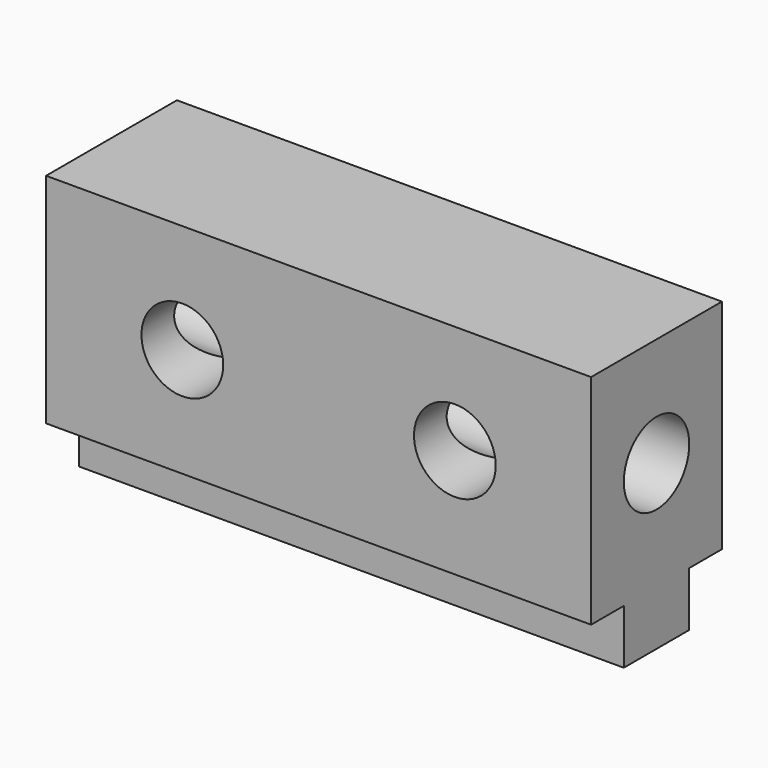
from build123d import *

# Parameters (mm, degrees)
F0_W      = 127
F0_H      = 38.1
F1_DEPTH  = 63.5
F2_W      = 9.525
F2_H      = 12.7
F3_DEPTH  = 127.001
F4_W      = 9.525
F4_H      = 12.7
F5_DEPTH  = 127.001
F6_R      = 9.525
F7_DEPTH  = 127.001
F8_R      = 9.525
F9_DEPTH  = 38.101
F10_R     = 9.525
F11_DEPTH = 38.101


with BuildPart() as f1:
    # F0 (on Top) → F1 (new body)
    with BuildSketch(Plane.XY):
        with Locations((-20.138042, -12.861965)):
            Rectangle(F0_W, F0_H)
    extrude(amount=F1_DEPTH)

    # F2 (on face) → F3 (cut, through all)
    with BuildSketch(Plane.YZ.offset(43.361958)):
        with Locations((-27.149465, 6.35)):
            Rectangle(F2_W, F2_H)
    extrude(amount=-F3_DEPTH, mode=Mode.SUBTRACT)

    # F4 (on face) → F5 (cut, through all)
    with BuildSketch(Plane.YZ.offset(43.361958)):
        with Locations((1.425535, 6.35)):
            Rectangle(F4_W, F4_H)
    extrude(amount=-F5_DEPTH, mode=Mode.SUBTRACT)

    # F6 (on face) → F7 (cut, through all)
    with BuildSketch(Plane.YZ.offset(43.361958)):
        with Locations((-12.861965, 38.1)):
            Circle(F6_R)
    extrude(amount=-F7_DEPTH, mode=Mode.SUBTRACT)

    # F8 (on face) → F9 (cut, through all)
    with BuildSketch(Plane.XZ.offset(31.911965)):
        with Locations((-51.888042, 38.1)):
            Circle(F8_R)
    extrude(amount=-F9_DEPTH, mode=Mode.SUBTRACT)

    # F10 (on face) → F11 (cut, through all)
    with BuildSketch(Plane.XZ.offset(31.911965)):
        with Locations((11.611958, 38.1)):
            Circle(F10_R)
    extrude(amount=-F11_DEPTH, mode=Mode.SUBTRACT)


solid = f1.part
